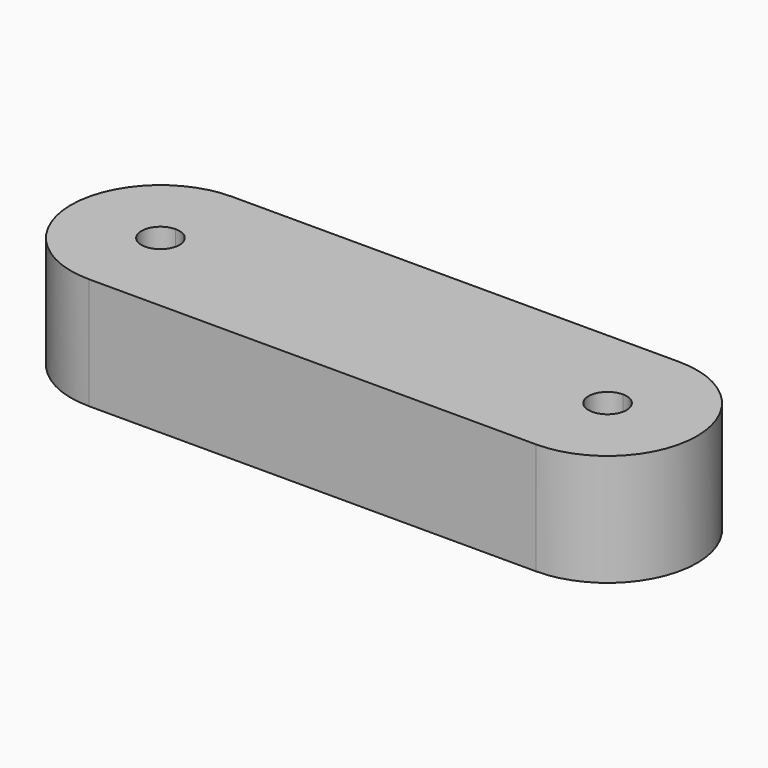
from build123d import *

# Parameters (mm, degrees)
F1_DEPTH = 10


with BuildPart() as f1:
    # F0 (on Top) → F1 (new body)
    with BuildSketch(Plane.XY):
        with BuildLine():
            Line((20, 8), (-20, 8))
            Line((-20, 8), (-20, 1.7))
            ThreePointArc((-20, 1.7), (-18.797918, 1.202082), (-18.3, 0))
            ThreePointArc((-18.3, 0), (-18.797918, -1.202082), (-20, -1.7))
            Line((-20, -1.7), (-20, -8))
            Line((-20, -8), (20, -8))
            Line((20, -8), (20, -1.7))
            ThreePointArc((20, -1.7), (18.3, 0), (20, 1.7))
            Line((20, 1.7), (20, 8))
        make_face()
        with BuildLine():
            Line((-20, 1.7), (-20, 8))
            ThreePointArc((-20, 8), (-28, 0), (-20, -8))
            Line((-20, -8), (-20, -1.7))
            ThreePointArc((-20, -1.7), (-21.7, 0), (-20, 1.7))
        make_face()
        with BuildLine():
            ThreePointArc((20, -8), (28, 0), (20, 8))
            Line((20, 8), (20, 1.7))
            ThreePointArc((20, 1.7), (21.202082, 1.202082), (21.7, 0))
            ThreePointArc((21.7, 0), (21.202082, -1.202082), (20, -1.7))
            Line((20, -1.7), (20, -8))
        make_face()
    extrude(amount=F1_DEPTH)


solid = f1.part
